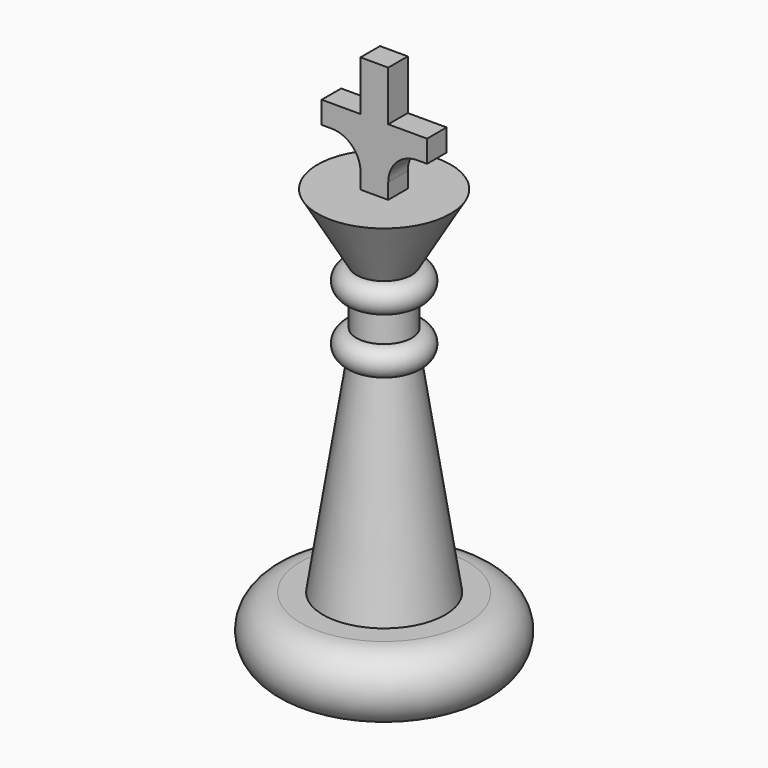
from build123d import *

# Parameters (mm, degrees)
PAD_DEPTH = 1.1


with BuildPart() as revolution002:
    # Sketch002 → Revolution002 (revolve)
    with BuildSketch(Plane.XZ):
        with BuildLine():
            Line((0, 0), (2.5, 0))
            Line((2.5, 24.5), (2.5, 0))
            ThreePointArc((2.5, 24.5), (3.75, 25.75), (2.5, 27))
            Line((2.5, 29.5), (2.5, 27))
            ThreePointArc((2.5, 29.5), (3.75, 30.75), (2.5, 32))
            Line((2.5, 32), (0, 32))
            Line((0, 32), (0, 0))
        make_face()
    revolve(axis=Axis((0, 0, 0), (0, 0, 1)))


with BuildPart() as revolution:
    # Sketch → Revolution (revolve)
    with BuildSketch(Plane.XZ):
        with BuildLine():
            Line((0, 0), (7.5, 0))
            ThreePointArc((7.5, 0), (10.5, 3), (7.5, 6))
            Line((7.5, 6), (0, 6))
            Line((0, 6), (0, 0))
        make_face()
        Polygon((0, 6), (5.5, 6), (2.5, 25.5), (2.5, 32), (6, 38), (0, 38), align=None)
    revolve(axis=Axis((0, 0, 0), (0, 0, 1)))


with BuildPart() as fusion:
    # Sketch003 → Pad (new body, symmetric)
    with BuildSketch(Plane.XZ):
        with BuildLine():
            Line((-1.25, 37.5), (1.25, 37.5))
            Line((1.25, 37.5), (1.25, 39.4))
            ThreePointArc((3.85, 42), (2.011522, 41.238478), (1.25, 39.4))
            Line((3.85, 42), (4.75, 42))
            Line((4.75, 42), (4.75, 44))
            Line((4.75, 44), (1.25, 44))
            Line((1.25, 44), (1.25, 48.5))
            Line((1.25, 48.5), (-1.25, 48.5))
            Line((-1.25, 48.5), (-1.25, 44))
            Line((-1.25, 44), (-4.75, 44))
            Line((-4.75, 44), (-4.75, 42))
            Line((-4.75, 42), (-3.85, 42))
            ThreePointArc((-1.25, 39.4), (-2.011522, 41.238478), (-3.85, 42))
            Line((-1.25, 39.4), (-1.25, 37.5))
        make_face()
    extrude(amount=PAD_DEPTH, both=True)

    # Fusion: union Revolution002, Revolution
    add(revolution002.part)
    add(revolution.part)


solid = fusion.part
